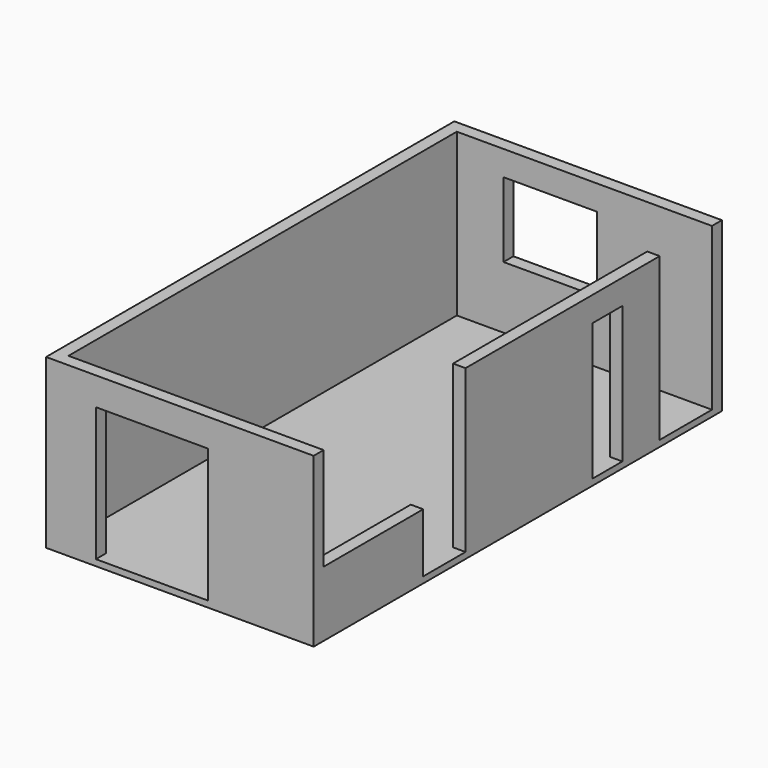
from build123d import *

# Parameters (mm, degrees)
F0_W          = 3900
F0_H          = 7800
F1_DEPTH      = 100
F2_W          = 4300
F2_H          = 8200
F2_W_2        = 3900
F2_H_2        = 7800
F3_DEPTH      = 2600
F3_DEPTH_BACK = 100
F4_W          = 200
F4_H          = 1050
F4_H_2        = 2850
F5_DEPTH      = 2600.001
F6_W          = 1500
F6_H          = 1200
F7_DEPTH      = 200.001
F8_W          = 1800
F8_H          = 2150
F9_DEPTH      = 200.001
F10_W         = 600
F10_H         = 2200
F11_DEPTH     = 200.001
F12_W         = 200
F12_H         = 2000
F13_DEPTH     = 950


with BuildPart() as f1:
    # F0 (on Top) → F1 (new body)
    with BuildSketch(Plane.XY):
        Rectangle(F0_W, F0_H)
    extrude(amount=-F1_DEPTH)

    # F2 (on Top) → F3 (join, two sides)
    with BuildSketch(Plane.XY) as f3_sk:
        Rectangle(F2_W, F2_H)
        Rectangle(F2_W_2, F2_H_2, mode=Mode.SUBTRACT)
    extrude(amount=F3_DEPTH)
    extrude(f3_sk.sketch, amount=-F3_DEPTH_BACK)

    # F4 (on face) → F5 (cut, through all)
    with BuildSketch(Plane.XY):
        with Locations((2050, 3375)):
            Rectangle(F4_W, F4_H)
        with Locations((2050, -2475)):
            Rectangle(F4_W, F4_H_2)
    extrude(amount=F5_DEPTH, mode=Mode.SUBTRACT)

    # F6 (on face) → F7 (cut, through all)
    with BuildSketch(Plane.XZ.offset(-3900)):
        with Locations((-450, 1600)):
            Rectangle(F6_W, F6_H)
    extrude(amount=-F7_DEPTH, mode=Mode.SUBTRACT)

    # F8 (on face) → F9 (cut, through all)
    with BuildSketch(Plane(origin=(0, -3900, 0), x_dir=(-1, 0, 0), z_dir=(0, 1, 0))):
        with Locations((450, 1075)):
            Rectangle(F8_W, F8_H)
    extrude(amount=-F9_DEPTH, mode=Mode.SUBTRACT)

    # F10 (on face) → F11 (cut, through all)
    with BuildSketch(Plane(origin=(1950, 0, 0), x_dir=(0, -1, 0), z_dir=(-1, 0, 0))):
        with Locations((-1800, 1100)):
            Rectangle(F10_W, F10_H)
    extrude(amount=-F11_DEPTH, mode=Mode.SUBTRACT)

    # F12 (on face) → F13 (join)
    with BuildSketch(Plane.XY):
        with Locations((2050, -2900)):
            Rectangle(F12_W, F12_H)
    extrude(amount=F13_DEPTH)


solid = f1.part
